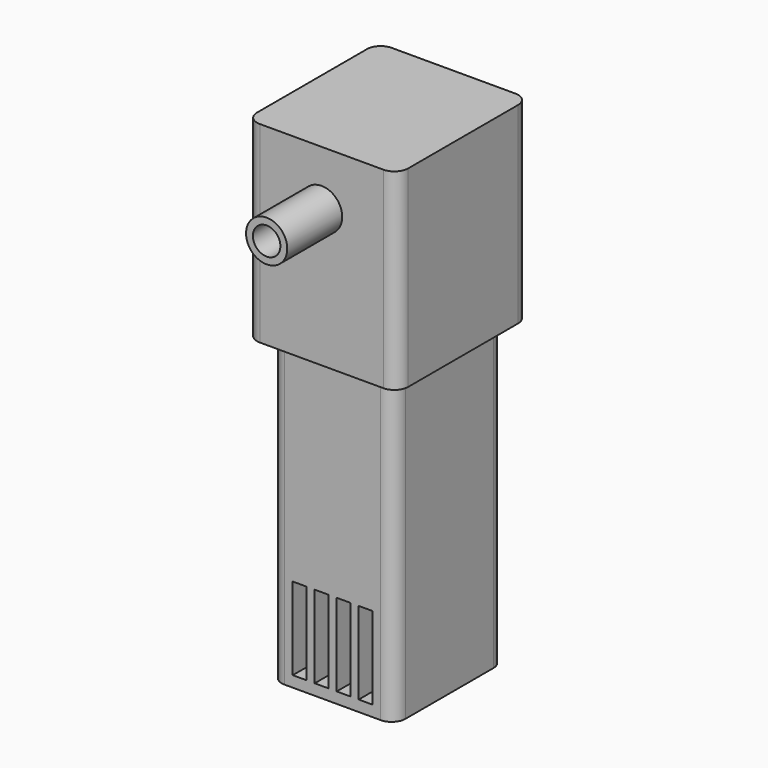
from build123d import *

# Parameters (mm, degrees)
F0_W     = 45
F0_H     = 50
F1_DEPTH = 110
F2_W     = 45
F2_H     = 50
F3_DEPTH = 70
F4_R     = 5
F5_W     = 5
F5_H     = 30
F6_DEPTH = 17
F7_R     = 7.5
F7_R_2   = 5
F8_DEPTH = 25


with BuildPart() as f1:
    # F0 (on Top) → F1 (new body)
    with BuildSketch(Plane.XY):
        Rectangle(F0_W, F0_H)
    extrude(amount=F1_DEPTH)

    # F2 (on face) → F3 (join)
    with BuildSketch(Plane.XY.offset(110)):
        with BuildLine():
            ThreePointArc((-27.5, -25), (-26.0355339059, -28.5355339059), (-22.5, -30))
            Line((-22.5, -30), (22.5, -30))
            ThreePointArc((22.5, -30), (26.0355339059, -28.5355339059), (27.5, -25))
            Line((27.5, -25), (27.5, 25))
            ThreePointArc((27.5, 25), (26.0355339059, 28.5355339059), (22.5, 30))
            Line((22.5, 30), (-22.5, 30))
            ThreePointArc((-22.5, 30), (-26.0355339059, 28.5355339059), (-27.5, 25))
            Line((-27.5, 25), (-27.5, -25))
        make_face()
        Rectangle(F2_W, F2_H, mode=Mode.SUBTRACT)
        Rectangle(F2_W, F2_H)
    extrude(amount=F3_DEPTH)

    # F4
    f4_edges = [f1.edges().sort_by_distance(p)[0] for p in [
        (22.5, 25, 55),
        (22.5, -25, 55),
        (-22.5, -25, 55),
        (-22.5, 25, 55),
    ]]
    fillet(f4_edges, radius=F4_R)

    # F5 (on face) → F6 (cut)
    with BuildSketch(Plane.XZ.offset(25)):
        with Locations((-12, 19)):
            Rectangle(F5_W, F5_H)
        with Locations((-4, 19)):
            Rectangle(F5_W, F5_H)
        with Locations((4, 19)):
            Rectangle(F5_W, F5_H)
        with Locations((12, 19)):
            Rectangle(F5_W, F5_H)
    extrude(amount=-F6_DEPTH, mode=Mode.SUBTRACT)

    # F7 (on face) → F8 (join)
    with BuildSketch(Plane.XZ.offset(30)):
        with Locations((0, 160)):
            Circle(F7_R)
        with Locations((0, 160)):
            Circle(F7_R_2, mode=Mode.SUBTRACT)
    extrude(amount=F8_DEPTH)


solid = f1.part
